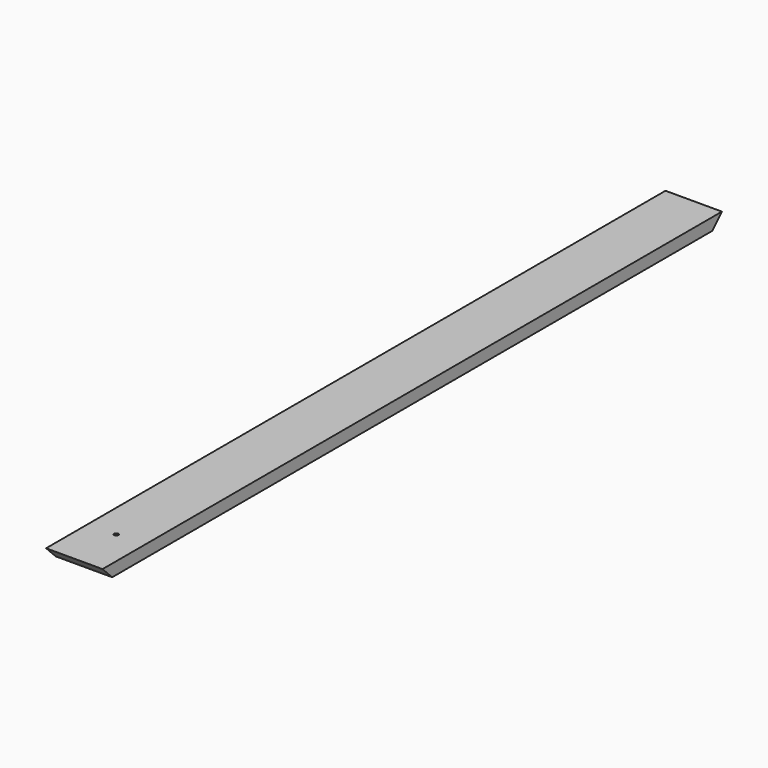
from build123d import *

# Parameters (mm, degrees)
F0_W     = 88.9
F0_H     = 19.05
F1_DEPTH = 1219.2
F3_DEPTH = 88.901
F5_D     = 6.35


with BuildPart() as f1:
    # F0 (on Front) → F1 (new body)
    with BuildSketch(Plane.XZ):
        Rectangle(F0_W, F0_H)
    extrude(amount=F1_DEPTH)

    # F2 (on face) → F3 (cut, through all)
    with BuildSketch(Plane.YZ.offset(44.45)):
        Polygon((0, -9.525), (0, 9.525), (-19.05, -9.525), align=None)
        Polygon((-1200.15, -9.525), (-1219.2, 9.525), (-1219.2, -9.525), align=None)
    extrude(amount=-F3_DEPTH, mode=Mode.SUBTRACT)

    # F5 (through all)
    with Locations(Plane.XY.offset(9.525)):
        with Locations((0, -1136.65)):
            Hole(F5_D / 2)


solid = f1.part
